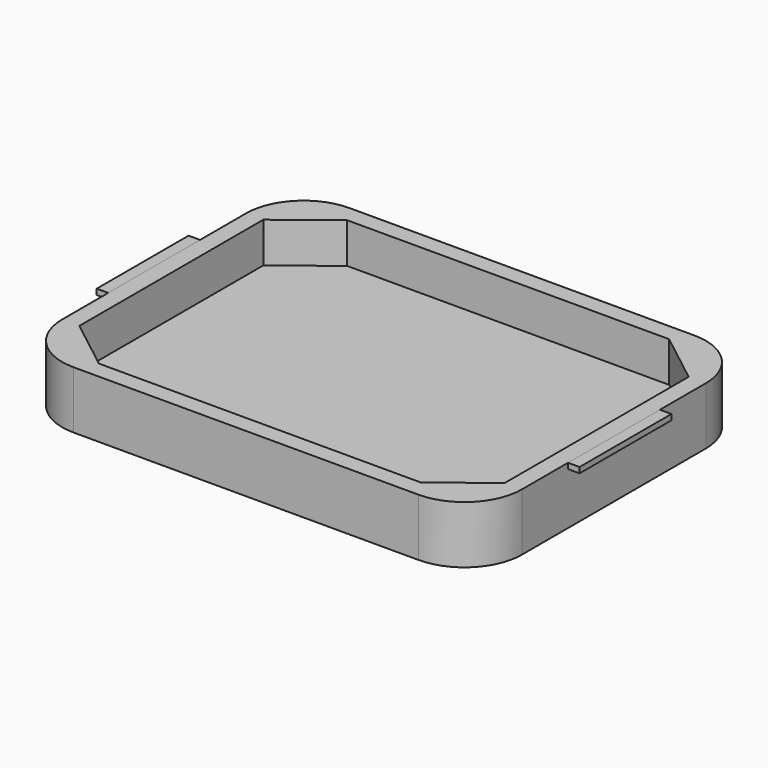
from build123d import *

# Parameters (mm, degrees)
SKETCH_W     = 80
SKETCH_H     = 60
PAD_DEPTH    = 10
POCKET_DEPTH = 7
FILLET001_R  = 10
SKETCH003_W  = 19.974239
SKETCH003_H  = 0.973365
PAD001_DEPTH = 2


with BuildPart() as part:
    # Sketch → Pad (new body)
    with BuildSketch(Plane.XY):
        Rectangle(SKETCH_W, SKETCH_H)
    extrude(amount=PAD_DEPTH)

    # Sketch002 (on Face6 of Pad) → Pocket (cut)
    with BuildSketch(Plane.XY.offset(10)):
        Polygon((-28, 27), (28, 27), (37, 20.000019), (37, -20.000019), (28, -27), (-28, -27), (-37, -20.000019), (-37, 20.000019), align=None)
    extrude(amount=-POCKET_DEPTH, mode=Mode.SUBTRACT)

    # Fillet001
    fillet001_edges = [part.edges().sort_by_distance(p)[0] for p in [
        (-40, 30, 5),
        (40, 30, 5),
        (40, -30, 5),
        (-40, -30, 5),
    ]]
    fillet(fillet001_edges, radius=FILLET001_R)

    # Sketch003 (on Face6 of Fillet001) → Pad001 (join)
    with BuildSketch(Plane(origin=(-40, 0, 0), x_dir=(0, -1, 0), z_dir=(-1, 0, 0))):
        with Locations((-0.012881, 9.513317)):
            Rectangle(SKETCH003_W, SKETCH003_H)
    pad001 = extrude(amount=PAD001_DEPTH)

    # Mirrored: Pad001 across YZ
    add(pad001.mirror(Plane.YZ))


solid = part.part
